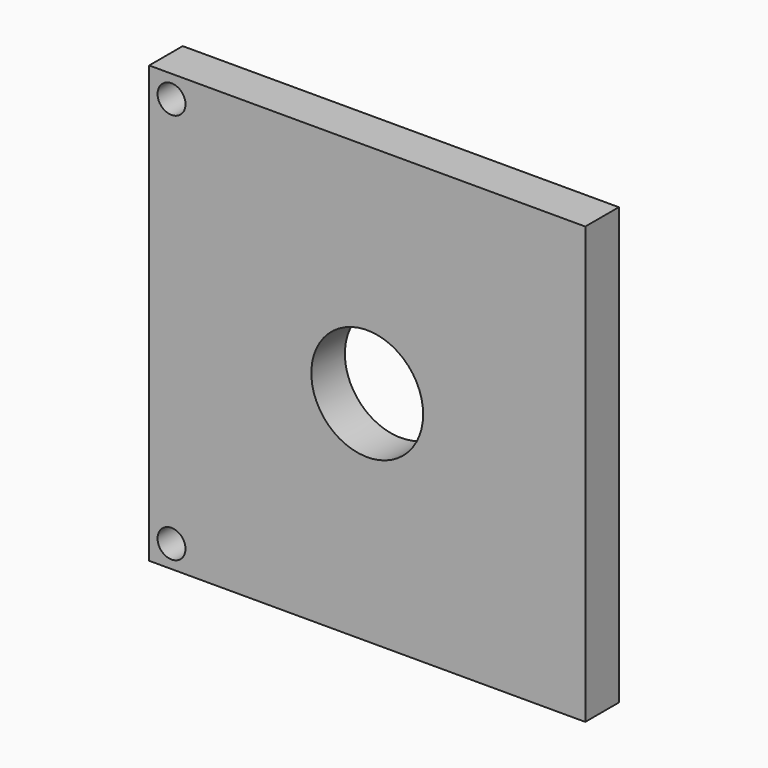
from build123d import *

# Parameters (mm, degrees)
F0_R     = 5
F0_R_2   = 20
F1_DEPTH = 15


with BuildPart() as f1:
    # F0 (on Front) → F1 (new body)
    with BuildSketch(Plane.XZ):
        Polygon((-78, 78), (-78, -78), (-73, -78), (73, -78), (78, -78), (78, 78), (73, 78), (-73, 78), align=None)
        with Locations((-70, -70)):
            Circle(F0_R, mode=Mode.SUBTRACT)
        with Locations((-70, 70)):
            Circle(F0_R, mode=Mode.SUBTRACT)
        Circle(F0_R_2, mode=Mode.SUBTRACT)
    extrude(amount=F1_DEPTH)


solid = f1.part
